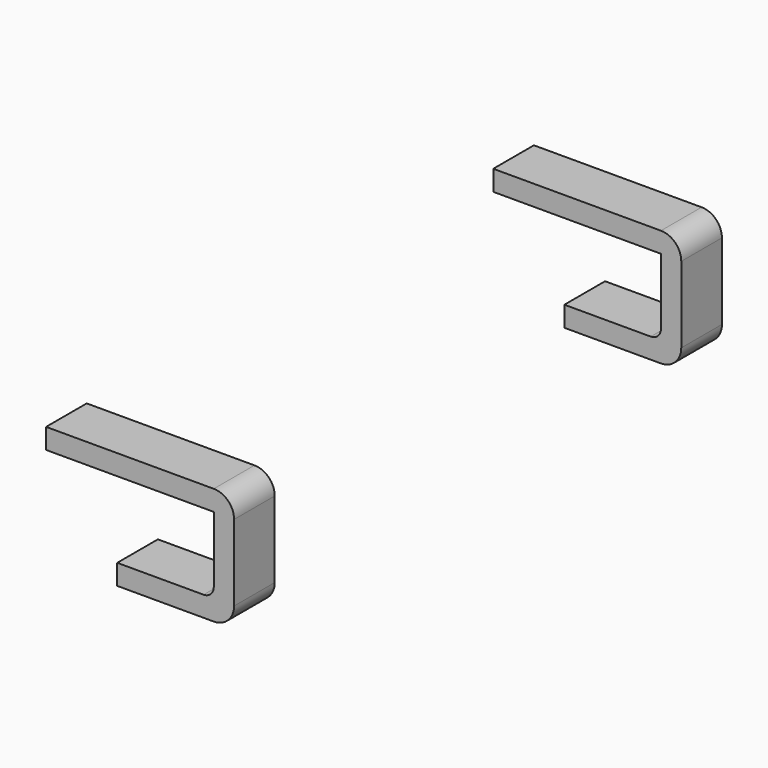
from build123d import *

# Parameters (mm, degrees)
EXTRUDE_DEPTH = 0.25
FILLET002_1_R = 0.2
FILLET002_2_R = 0.1
ARRAY_Y_COUNT = 2
ARRAY_Y_PITCH = 5.5


with BuildPart() as array_pin:
    # Sketch001 → Extrude (new body, symmetric)
    with BuildSketch(Plane.XZ.offset(-1.5)):
        Polygon((0, 1.15), (1.85, 1.15), (1.85, 0.95), (0.2, 0.95), (0.2, 0.2), (1.15, 0.2), (1.15, 0), (0, 0), align=None)
    extrude(amount=EXTRUDE_DEPTH, both=True)

    # Fillet002 1
    fillet002_1_edges = [array_pin.edges().sort_by_distance(p)[0] for p in [
        (0, 1.5, 1.15),
        (0, 1.5, 0),
    ]]
    fillet(fillet002_1_edges, radius=FILLET002_1_R)

    # Fillet002 2
    fillet002_2_edges = [array_pin.edges().sort_by_distance(p)[0] for p in [
        (0.2, 1.5, 0.2),
    ]]
    fillet(fillet002_2_edges, radius=FILLET002_2_R)

    # Array Y: Array_pin ×2


with BuildPart() as array_pin_1:
    add(array_pin.part)
    with Locations(*[(0, i * ARRAY_Y_PITCH, 0) for i in range(1, ARRAY_Y_COUNT)]):
        add(array_pin.part)


with BuildPart() as mirror_pins:
    # Part__Mirroring: instance of Array_pin
    add(array_pin_1.part.mirror(Plane(origin=(0, 4.25, 0.575001), x_dir=(0, -1, 0), z_dir=(1, 0, 0))))


with BuildPart() as mirror_pins_1:
    # Part__Mirroring placement: moved
    add(mirror_pins.part.moved(Location((3.7, 0, 0))))


solid = mirror_pins_1.part
